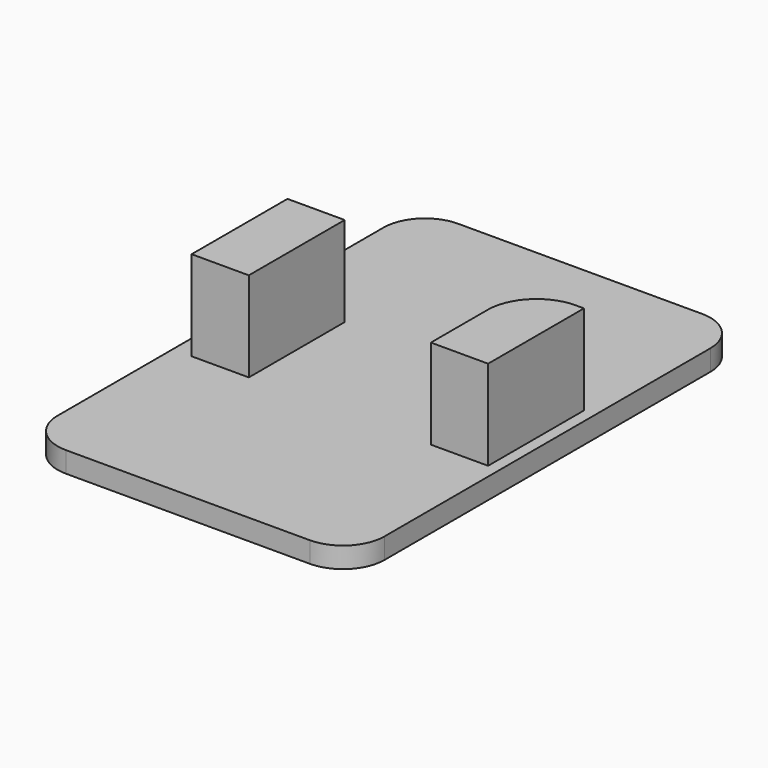
from build123d import *

# Parameters (mm, degrees)
F0_W     = 40
F0_H     = 60
F1_DEPTH = 2.54
F2_R     = 5.08
F3_W     = 7
F3_H     = 14.663703
F4_DEPTH = 11
F5_R     = 5.991668


with BuildPart() as f1:
    # F0 (on Top) → F1 (new body)
    with BuildSketch(Plane.XY):
        Rectangle(F0_W, F0_H)
    extrude(amount=F1_DEPTH)

    # F2
    f2_edges = [f1.edges().sort_by_distance(p)[0] for p in [
        (-20, -30, 1.27),
        (20, -30, 1.27),
        (-20, 30, 1.27),
        (20, 30, 1.27),
    ]]
    fillet(f2_edges, radius=F2_R)

    # F3 (on face) → F4 (join)
    with BuildSketch(Plane.XY.offset(2.54)):
        Polygon((-17.676001, -7.332922), (-10.676001, -7.332922), (-10.676001, 7.330781), (-11.603794, 7.330781), (-17.676001, 7.330781), align=None)
        with Locations((15.103794, 0.00107)):
            Rectangle(F3_W, F3_H)
    extrude(amount=F4_DEPTH)

    # F5
    f5_edges = [f1.edges().sort_by_distance(p)[0] for p in [
        (11.603794, 7.332922, 8.04),
    ]]
    fillet(f5_edges, radius=F5_R)


solid = f1.part
